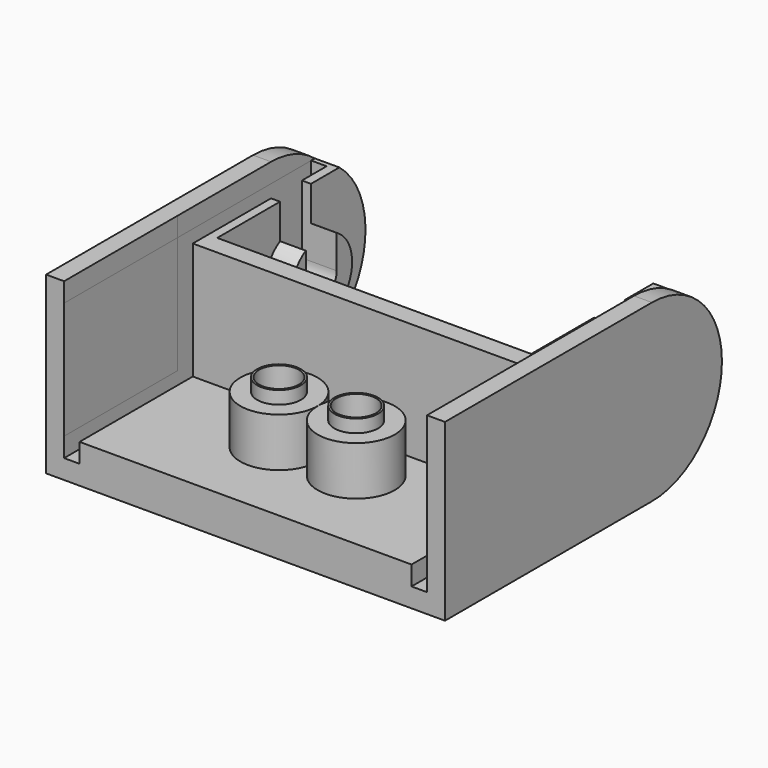
from build123d import *

# Parameters (mm, degrees)
PAD_DEPTH            = 31
SKETCH001_W          = 11
SKETCH001_H          = 28.2
POCKET_DEPTH         = 10.6
SKETCH002_R          = 3
PAD001_DEPTH         = 3.8
SKETCH003_R          = 1.7
PAD002_DEPTH         = 4.8
SKETCH004_R          = 1.55
POCKET001_DEPTH      = 3.001
POCKET001_DEPTH_BACK = -10.601
POCKET002_DEPTH      = 2.3
SKETCH006_W          = 16
SKETCH006_H          = 28.2
POCKET003_DEPTH      = 1.5
SKETCH007_W          = 24
SKETCH007_H          = 1.2
POCKET004_DEPTH      = 10.6
SKETCH008_W          = 15
SKETCH008_H          = 24.4
POCKET005_DEPTH      = 13.601
SKETCH009_R          = 3
PAD003_DEPTH         = 2
POCKET006_DEPTH      = 3
SKETCH011_R          = 3
PAD004_DEPTH         = 2
POCKET007_DEPTH      = 3


with BuildPart() as part:
    # Sketch → Pad (new body)
    with BuildSketch(Plane.YZ):
        with BuildLine():
            Line((-13.3, 6.8), (-13.3, -6.8))
            Line((-13.3, -6.8), (6.800033, -6.8))
            ThreePointArc((6.800033, -6.8), (13.6, 3.4e-05), (6.799965, 6.8))
            Line((-13.3, 6.8), (6.799965, 6.8))
        make_face()
    extrude(amount=PAD_DEPTH)

    # Sketch001 (on Face4 of Pad) → Pocket (cut)
    with BuildSketch(Plane(origin=(0, 0, 6.8), x_dir=(0, -1, 0), z_dir=(0, 0, 1))):
        with Locations((7.8, 15.5)):
            Rectangle(SKETCH001_W, SKETCH001_H)
    extrude(amount=-POCKET_DEPTH, mode=Mode.SUBTRACT)

    # Sketch002 (on Face7 of Pocket) → Pad001 (join)
    with BuildSketch(Plane(origin=(0, 0, -3.8), x_dir=(0, -1, 0), z_dir=(0, 0, 1))):
        with Locations((6.3, 18.5)):
            Circle(SKETCH002_R)
        with Locations((6.3, 12.5)):
            Circle(SKETCH002_R)
    extrude(amount=PAD001_DEPTH)

    # Sketch003 (on Face7 of Pad001) → Pad002 (join)
    with BuildSketch(Plane(origin=(0, 0, -3.8), x_dir=(0, -1, 0), z_dir=(0, 0, 1))):
        with Locations((6.3, 18.5)):
            Circle(SKETCH003_R)
        with Locations((6.3, 12.5)):
            Circle(SKETCH003_R)
    extrude(amount=PAD002_DEPTH)

    # Sketch004 (on Face7 of Pad002) → Pocket001 (cut, two sides)
    with BuildSketch(Plane(origin=(0, 0, -3.8), x_dir=(0, -1, 0), z_dir=(0, 0, 1))) as pocket001_sk:
        with Locations((6.3, 18.5)):
            Circle(SKETCH004_R)
        with Locations((6.3, 12.5)):
            Circle(SKETCH004_R)
    extrude(amount=-POCKET001_DEPTH, mode=Mode.SUBTRACT)
    extrude(pocket001_sk.sketch, amount=-POCKET001_DEPTH_BACK, mode=Mode.SUBTRACT)

    # Sketch005 (on Face3 of Pocket001) → Pocket002 (cut)
    with BuildSketch(Plane.YX.offset(6.8)):
        Polygon((-3, 18.5), (-4.65, 21.357884), (-7.95, 21.357884), (-9.6, 18.5), (-7.95, 15.642116), (-4.65, 15.642116), align=None)
        Polygon((-3, 12.5), (-4.65, 15.357884), (-7.95, 15.357884), (-9.6, 12.5), (-7.95, 9.642116), (-4.65, 9.642116), align=None)
    extrude(amount=-POCKET002_DEPTH, mode=Mode.SUBTRACT)

    # Sketch006 (on Face5 of Pocket002) → Pocket003 (cut)
    with BuildSketch(Plane(origin=(0, 0, 6.8), x_dir=(0, -1, 0), z_dir=(0, 0, 1))):
        with Locations((-5.7, 15.5)):
            Rectangle(SKETCH006_W, SKETCH006_H)
    extrude(amount=-POCKET003_DEPTH, mode=Mode.SUBTRACT)

    # Sketch007 (on Face30 of Pocket003) → Pocket004 (cut)
    with BuildSketch(Plane(origin=(0, 0, 5.3), x_dir=(0, -1, 0), z_dir=(0, 0, 1))):
        with Locations((1.3, 2)):
            Rectangle(SKETCH007_W, SKETCH007_H)
        with Locations((1.3, 29)):
            Rectangle(SKETCH007_W, SKETCH007_H)
    extrude(amount=-POCKET004_DEPTH, mode=Mode.SUBTRACT)

    # Sketch008 (on Face3 of Pocket004) → Pocket005 (cut, through all)
    with BuildSketch(Plane.YX.offset(6.8)):
        with Locations((6.7, 15.5)):
            Rectangle(SKETCH008_W, SKETCH008_H)
    extrude(amount=-POCKET005_DEPTH, mode=Mode.SUBTRACT)

    # Sketch009 (on Face19 of Pocket005) → Pad003 (join)
    with BuildSketch(Plane.YZ.offset(3.3)):
        with Locations((6.8, 0)):
            Circle(SKETCH009_R)
    extrude(amount=PAD003_DEPTH)

    # Sketch010 (on Face50 of Pad003) → Pocket006 (cut)
    with BuildSketch(Plane.YZ.offset(5.3)):
        with BuildLine():
            Line((5.3, 5.3), (5.3, 0))
            ThreePointArc((5.3, 0), (6.8, -1.5), (8.3, 0))
            Line((8.3, 0), (8.3, 5.3))
            Line((8.3, 5.3), (5.3, 5.3))
        make_face()
    extrude(amount=-POCKET006_DEPTH, mode=Mode.SUBTRACT)

    # Sketch011 (on Face21 of Pocket006) → Pad004 (join)
    with BuildSketch(Plane(origin=(27.7, 0, 0), x_dir=(0, 1, 0), z_dir=(-1, 0, 0))):
        with Locations((6.8, 0)):
            Circle(SKETCH011_R)
    extrude(amount=PAD004_DEPTH)

    # Sketch012 (on Face57 of Pad004) → Pocket007 (cut)
    with BuildSketch(Plane(origin=(25.7, 0, 0), x_dir=(0, 1, 0), z_dir=(-1, 0, 0))):
        with BuildLine():
            ThreePointArc((8.3, 0), (6.8, 1.5), (5.3, -1e-06))
            Line((5.3, -1e-06), (5.3, -5.3))
            Line((5.3, -5.3), (8.3, -5.3))
            Line((8.3, -5.3), (8.3, 0))
        make_face()
    extrude(amount=-POCKET007_DEPTH, mode=Mode.SUBTRACT)


solid = part.part
